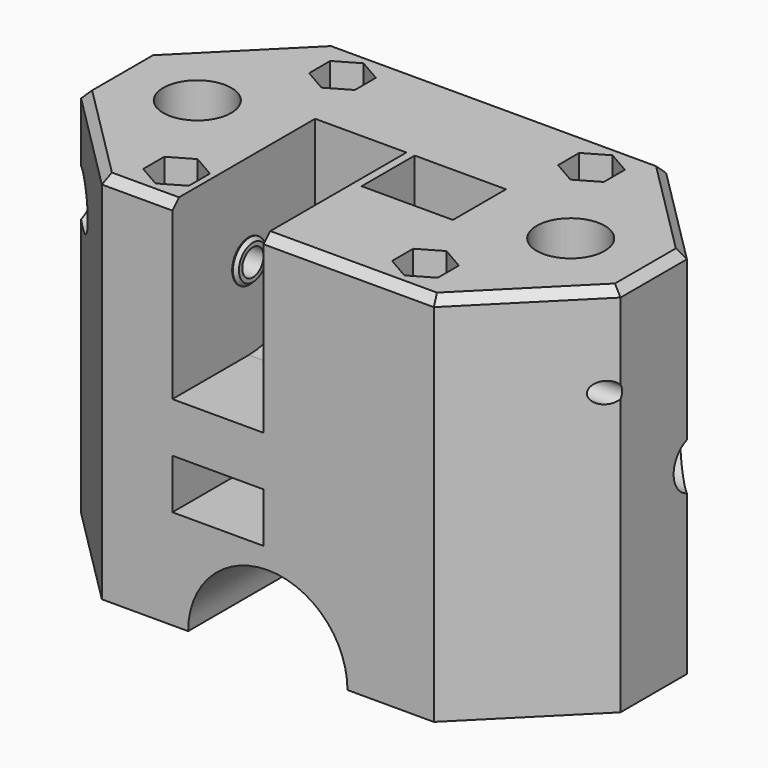
from build123d import *

# Parameters (mm, degrees)
SKETCH_R             = 1.6
PAD_DEPTH            = 45
SKETCH001_R          = 4.1
POCKET_DEPTH         = 37
SKETCH002_R          = 9.6
POCKET001_DEPTH      = 17.501
POCKET001_DEPTH_BACK = -17.501
SKETCH003_R          = 2.5
SKETCH003_W          = 35
SKETCH003_H          = 6
POCKET002_DEPTH      = 5.5
SKETCH004_R          = 4
POCKET003_DEPTH      = 5
SKETCH005_R          = 2.5
POCKET004_DEPTH      = 5.5
SKETCH006_R          = 4
POCKET005_DEPTH      = 5
SKETCH007_R          = 1.25
POCKET006_DEPTH      = 32.501
POCKET006_DEPTH_BACK = -32.501
SKETCH008_R          = 1.6
POCKET007_DEPTH      = 20
SKETCH009_R          = 3
POCKET008_DEPTH      = 6
SKETCH010_R          = 3
POCKET009_DEPTH      = 6
SKETCH011_R          = 3
POCKET010_DEPTH      = 3
CHAMFER_SIZE         = 1
CHAMFER001_SIZE      = 0.4


with BuildPart() as part:
    # Sketch → Pad (new body)
    with BuildSketch(Plane.XY):
        Polygon((-32.5, 5), (-32.5, -5), (-20, -17.5), (20, -17.5), (32.5, -5), (32.5, 5), (20, 17.5), (-20, 17.5), align=None)
        with Locations((-15, 12.5)):
            Circle(SKETCH_R, mode=Mode.SUBTRACT)
        with Locations((-15, -12.5)):
            Circle(SKETCH_R, mode=Mode.SUBTRACT)
        with Locations((15, -12.5)):
            Circle(SKETCH_R, mode=Mode.SUBTRACT)
        with Locations((15, 12.5)):
            Circle(SKETCH_R, mode=Mode.SUBTRACT)
        with Locations((22.5, 0)):
            Circle(SKETCH_R, mode=Mode.SUBTRACT)
        with Locations((-22.5, 0)):
            Circle(SKETCH_R, mode=Mode.SUBTRACT)
    extrude(amount=PAD_DEPTH)

    # Sketch001 (on Face16 of Pad) → Pocket (cut)
    with BuildSketch(Plane.XY.offset(45)):
        with Locations((-22.5, 0)):
            Circle(SKETCH001_R)
        with Locations((22.5, 0)):
            Circle(SKETCH001_R)
        Polygon((-12.25, 10.912287), (-12.25, 14.087713), (-15, 15.675426), (-17.75, 14.087713), (-17.75, 10.912287), (-15, 9.324574), align=None)
        Polygon((17.75, 10.912287), (17.75, 14.087713), (15, 15.675426), (12.25, 14.087713), (12.25, 10.912287), (15, 9.324574), align=None)
        Polygon((-12.25, -14.087713), (-12.25, -10.912287), (-15, -9.324574), (-17.75, -10.912287), (-17.75, -14.087713), (-15, -15.675426), align=None)
        Polygon((17.75, -14.087713), (17.75, -10.912287), (15, -9.324574), (12.25, -10.912287), (12.25, -14.087713), (15, -15.675426), align=None)
    extrude(amount=-POCKET_DEPTH, mode=Mode.SUBTRACT)

    # Sketch002 → Pocket001 (cut, two sides)
    with BuildSketch(Plane.XZ) as pocket001_sk:
        Circle(SKETCH002_R)
    extrude(amount=-POCKET001_DEPTH, mode=Mode.SUBTRACT)
    extrude(pocket001_sk.sketch, amount=-POCKET001_DEPTH_BACK, mode=Mode.SUBTRACT)

    # Sketch003 (on DatumPlane) → Pocket002 (cut, symmetric)
    with BuildSketch(Plane.YZ.offset(-6)):
        with BuildLine():
            ThreePointArc((-6, 24), (1.071068, 26.928932), (4, 34))
            Line((4, 45), (4, 34))
            Line((-17.5, 45), (4, 45))
            Line((-17.5, 24), (-17.5, 45))
            Line((-6, 24), (-17.5, 24))
        make_face()
        with Locations((-6, 34)):
            Circle(SKETCH003_R, mode=Mode.SUBTRACT)
        with Locations((0, 15)):
            Rectangle(SKETCH003_W, SKETCH003_H)
    extrude(amount=POCKET002_DEPTH, both=True, mode=Mode.SUBTRACT)

    # Sketch004 (on DatumPlane) → Pocket003 (cut, symmetric)
    with BuildSketch(Plane.YZ.offset(-6)):
        with Locations((-6, 34)):
            Circle(SKETCH004_R)
    extrude(amount=POCKET003_DEPTH, both=True, mode=Mode.SUBTRACT)

    # Sketch005 (on DatumPlane) → Pocket004 (cut, symmetric)
    with BuildSketch(Plane.YZ.offset(6)):
        with BuildLine():
            ThreePointArc((-4, 22), (-1.071068, 14.928932), (6, 12))
            Line((17.5, 12), (6, 12))
            Line((17.5, 32), (17.5, 12))
            Line((4, 32), (17.5, 32))
            Line((4, 45), (4, 32))
            Line((-4, 45), (4, 45))
            Line((-4, 22), (-4, 45))
        make_face()
        with Locations((6, 22)):
            Circle(SKETCH005_R, mode=Mode.SUBTRACT)
    extrude(amount=POCKET004_DEPTH, both=True, mode=Mode.SUBTRACT)

    # Sketch006 (on DatumPlane) → Pocket005 (cut, symmetric)
    with BuildSketch(Plane.YZ.offset(6)):
        with Locations((6, 22)):
            Circle(SKETCH006_R)
    extrude(amount=POCKET005_DEPTH, both=True, mode=Mode.SUBTRACT)

    # Sketch007 → Pocket006 (cut, two sides)
    with BuildSketch(Plane.YZ) as pocket006_sk:
        with Locations((-6, 34)):
            Circle(SKETCH007_R)
        with Locations((6, 22)):
            Circle(SKETCH007_R)
    extrude(amount=-POCKET006_DEPTH, mode=Mode.SUBTRACT)
    extrude(pocket006_sk.sketch, amount=-POCKET006_DEPTH_BACK, mode=Mode.SUBTRACT)

    # Sketch008 → Pocket007 (cut, symmetric)
    with BuildSketch(Plane.YZ):
        with Locations((-6, 34)):
            Circle(SKETCH008_R)
        with Locations((6, 22)):
            Circle(SKETCH008_R)
    extrude(amount=POCKET007_DEPTH, both=True, mode=Mode.SUBTRACT)

    # Sketch009 (on Face16 of Pocket007) → Pocket008 (cut)
    with BuildSketch(Plane.YZ.offset(32.5)):
        with Locations((6, 22)):
            Circle(SKETCH009_R)
    extrude(amount=-POCKET008_DEPTH, mode=Mode.SUBTRACT)

    # Sketch010 (on Face1 of Pocket008) → Pocket009 (cut)
    with BuildSketch(Plane(origin=(-32.5, 0, 0), x_dir=(0, -1, 0), z_dir=(-1, 0, 0))):
        with Locations((6, 34)):
            Circle(SKETCH010_R)
    extrude(amount=-POCKET009_DEPTH, mode=Mode.SUBTRACT)

    # Sketch011 (on Face2 of Pocket009) → Pocket010 (cut)
    with BuildSketch(Plane(origin=(0, 0, 0), x_dir=(1, 0, 0), z_dir=(0, 0, -1))):
        with Locations((-22.5, 0)):
            Circle(SKETCH011_R)
        with Locations((22.5, 0)):
            Circle(SKETCH011_R)
    extrude(amount=-POCKET010_DEPTH, mode=Mode.SUBTRACT)

    # Chamfer
    chamfer_edges = [part.edges().sort_by_distance(p)[0] for p in [
        (-15.75, -17.5, 45),
        (-26.25, -11.25, 45),
        (-32.5, 0, 45),
        (-26.25, 11.25, 45),
        (0, 17.5, 45),
        (26.25, 11.25, 45),
        (32.5, 0, 45),
        (26.25, -11.25, 45),
        (9.75, -17.5, 45),
    ]]
    chamfer(chamfer_edges, length=CHAMFER_SIZE)

    # Chamfer001
    chamfer001_edges = [part.edges().sort_by_distance(p)[0] for p in [
        (-11, -8.5, 34),
        (-1, -8.5, 34),
        (1, 3.5, 22),
        (11, 3.5, 22),
    ]]
    chamfer(chamfer001_edges, length=CHAMFER001_SIZE)


solid = part.part
